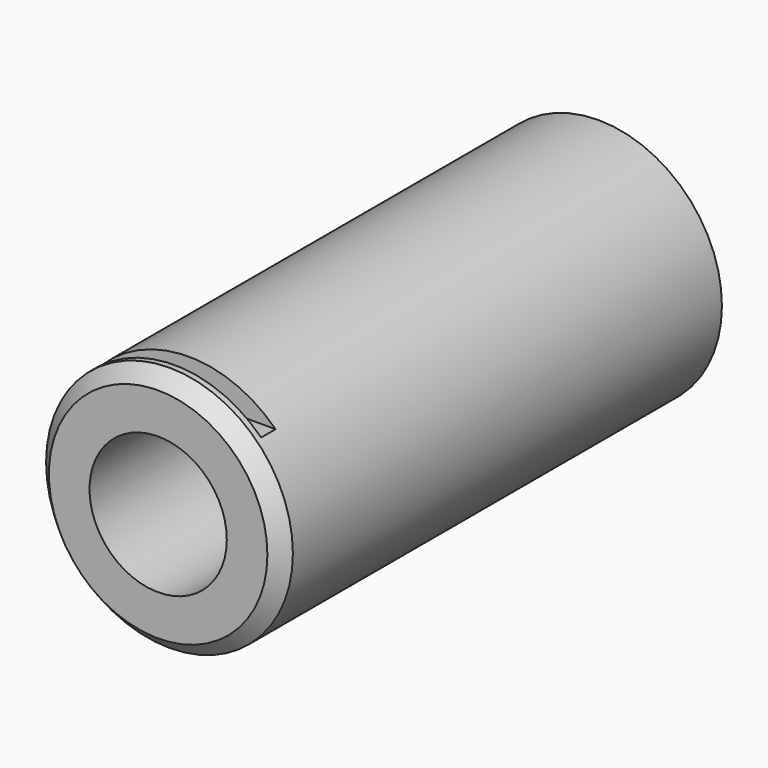
from build123d import *

# Parameters (mm, degrees)
F0_R     = 44.30014
F0_R_2   = 24.638
F1_DEPTH = 197.612
F3_W     = 88.9
F3_H     = 6.477
F4_DEPTH = 12.827
F5_SIZE  = 5.08


with BuildPart() as f1:
    # F0 (on Front) → F1 (new body)
    with BuildSketch(Plane.XZ):
        Circle(F0_R)
        Circle(F0_R_2, mode=Mode.SUBTRACT)
    extrude(amount=F1_DEPTH)

    # F3 (on offset) → F4 (cut)
    with BuildSketch(Plane.XY.offset(44.30014)):
        with Locations((0, -187.1345)):
            Rectangle(F3_W, F3_H)
    extrude(amount=-F4_DEPTH, mode=Mode.SUBTRACT)

    # F5
    f5_edges = [f1.edges().sort_by_distance(p)[0] for p in [
        (-44.30014, -197.612, 0),
    ]]
    chamfer(f5_edges, length=F5_SIZE)


solid = f1.part
